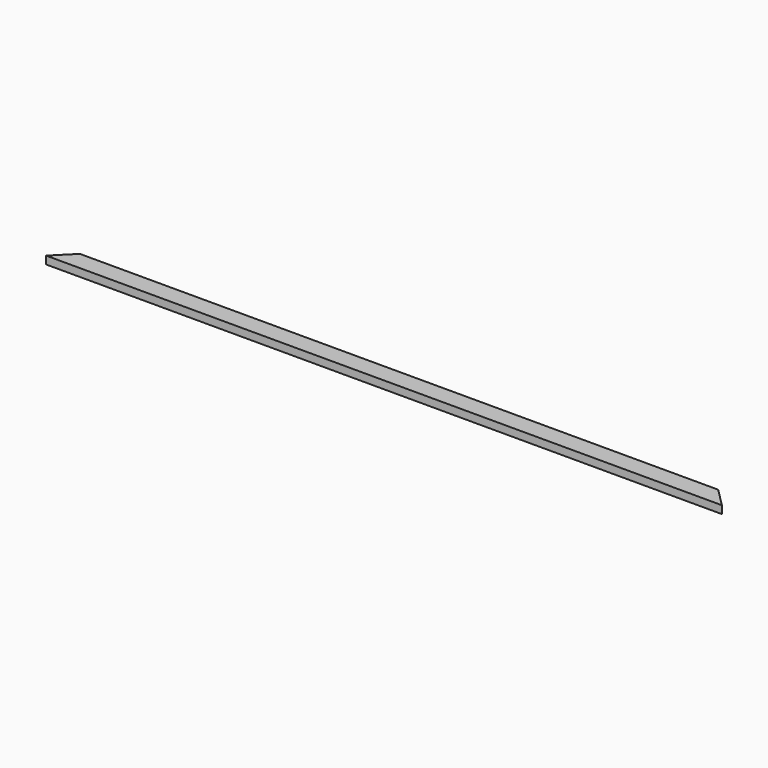
from build123d import *

# Parameters (mm, degrees)
F1_DEPTH = 5486.4
F3_DEPTH = 63.4248


with BuildPart() as f1:
    # F0 (on Right) → F1 (new body)
    with BuildSketch(Plane.YZ):
        with BuildLine():
            Line((76.2, 0), (-76.2, 0))
            Line((-76.2, 0), (-76.2, -63.4238))
            ThreePointArc((-76.2, -63.4238), (-72.574321, -62.102069), (-70.649887, -58.757061))
            Line((-70.649887, -58.757061), (-63.124886, -15.566335))
            ThreePointArc((-63.124886, -15.566335), (-59.952782, -10.052651), (-53.976459, -7.874))
            Line((-53.976459, -7.874), (53.976459, -7.874))
            ThreePointArc((53.976459, -7.874), (59.952782, -10.052651), (63.124886, -15.566335))
            Line((63.124886, -15.566335), (70.649887, -58.757061))
            ThreePointArc((70.649887, -58.757061), (72.574321, -62.102069), (76.2, -63.4238))
            Line((76.2, -63.4238), (76.2, 0))
        make_face()
    extrude(amount=F1_DEPTH)

    # F2 (on face) → F3 (cut, through all)
    with BuildSketch(Plane.XY):
        Polygon((0, 76.2), (0, -76.2), (152.4, 76.2), align=None)
        Polygon((5334, 76.2), (5486.4, -76.2), (5486.4, 76.2), align=None)
    extrude(amount=-F3_DEPTH, mode=Mode.SUBTRACT)


solid = f1.part
